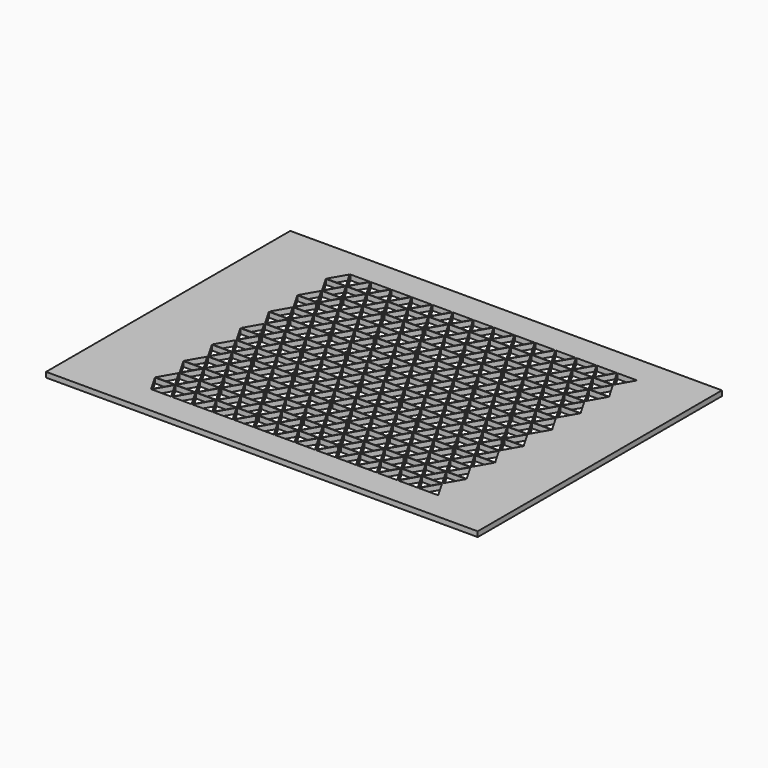
from build123d import *

# Parameters (mm, degrees)
F0_W     = 420
F0_H     = 297
F1_DEPTH = 5
F2_R     = 1.5
F3_DEPTH = 6


with BuildPart() as f1:
    # F0 (on Top) → F1 (new body)
    with BuildSketch(Plane.XY):
        with Locations((140, 103.923048)):
            Rectangle(F0_W, F0_H)
        Polygon((10, -16.820508), (0.433013, -0.25), (19.566987, -0.25), align=None, mode=Mode.SUBTRACT)
        Polygon((10.433013, -17.070508), (20, -0.5), (29.566987, -17.070508), align=None, mode=Mode.SUBTRACT)
        Polygon((30, -16.820508), (20.433013, -0.25), (39.566987, -0.25), align=None, mode=Mode.SUBTRACT)
        Polygon((19.566987, 0.25), (0.433013, 0.25), (10, 16.820508), align=None, mode=Mode.SUBTRACT)
        Polygon((29.566987, 17.070508), (20, 0.5), (10.433013, 17.070508), align=None, mode=Mode.SUBTRACT)
        Polygon((20.433013, 0.25), (30, 16.820508), (39.566987, 0.25), align=None, mode=Mode.SUBTRACT)
        Polygon((10, 17.820508), (0.433013, 34.391016), (19.566987, 34.391016), align=None, mode=Mode.SUBTRACT)
        Polygon((29.566987, 17.570508), (10.433013, 17.570508), (20, 34.141016), align=None, mode=Mode.SUBTRACT)
        Polygon((30, 17.820508), (20.433013, 34.391016), (39.566987, 34.391016), align=None, mode=Mode.SUBTRACT)
        Polygon((49.566987, -17.070508), (30.433013, -17.070508), (40, -0.5), align=None, mode=Mode.SUBTRACT)
        Polygon((50, -16.820508), (40.433013, -0.25), (59.566987, -0.25), align=None, mode=Mode.SUBTRACT)
        Polygon((69.566987, -17.070508), (50.433013, -17.070508), (60, -0.5), align=None, mode=Mode.SUBTRACT)
        Polygon((70, -16.820508), (60.433013, -0.25), (79.566987, -0.25), align=None, mode=Mode.SUBTRACT)
        Polygon((89.566987, -17.070508), (70.433013, -17.070508), (80, -0.5), align=None, mode=Mode.SUBTRACT)
        Polygon((90, -16.820508), (80.433013, -0.25), (99.566987, -0.25), align=None, mode=Mode.SUBTRACT)
        Polygon((109.566987, -17.070508), (90.433013, -17.070508), (100, -0.5), align=None, mode=Mode.SUBTRACT)
        Polygon((110, -16.820508), (100.433013, -0.25), (119.566987, -0.25), align=None, mode=Mode.SUBTRACT)
        Polygon((129.566987, -17.070508), (110.433013, -17.070508), (120, -0.5), align=None, mode=Mode.SUBTRACT)
        Polygon((130, -16.820508), (120.433013, -0.25), (139.566987, -0.25), align=None, mode=Mode.SUBTRACT)
        Polygon((49.566987, 17.070508), (40, 0.5), (30.433013, 17.070508), align=None, mode=Mode.SUBTRACT)
        Polygon((40.433013, 0.25), (50, 16.820508), (59.566987, 0.25), align=None, mode=Mode.SUBTRACT)
        Polygon((69.566987, 17.070508), (60, 0.5), (50.433013, 17.070508), align=None, mode=Mode.SUBTRACT)
        Polygon((60.433013, 0.25), (70, 16.820508), (79.566987, 0.25), align=None, mode=Mode.SUBTRACT)
        Polygon((89.566987, 17.070508), (80, 0.5), (70.433013, 17.070508), align=None, mode=Mode.SUBTRACT)
        Polygon((49.566987, 17.570508), (30.433013, 17.570508), (40, 34.141016), align=None, mode=Mode.SUBTRACT)
        Polygon((50, 17.820508), (40.433013, 34.391016), (59.566987, 34.391016), align=None, mode=Mode.SUBTRACT)
        Polygon((69.566987, 17.570508), (50.433013, 17.570508), (60, 34.141016), align=None, mode=Mode.SUBTRACT)
        Polygon((70, 17.820508), (60.433013, 34.391016), (79.566987, 34.391016), align=None, mode=Mode.SUBTRACT)
        Polygon((89.566987, 17.570508), (70.433013, 17.570508), (80, 34.141016), align=None, mode=Mode.SUBTRACT)
        Polygon((80.433013, 0.25), (90, 16.820508), (99.566987, 0.25), align=None, mode=Mode.SUBTRACT)
        Polygon((109.566987, 17.070508), (100, 0.5), (90.433013, 17.070508), align=None, mode=Mode.SUBTRACT)
        Polygon((100.433013, 0.25), (110, 16.820508), (119.566987, 0.25), align=None, mode=Mode.SUBTRACT)
        Polygon((129.566987, 17.070508), (120, 0.5), (110.433013, 17.070508), align=None, mode=Mode.SUBTRACT)
        Polygon((120.433013, 0.25), (130, 16.820508), (139.566987, 0.25), align=None, mode=Mode.SUBTRACT)
        Polygon((90, 17.820508), (80.433013, 34.391016), (99.566987, 34.391016), align=None, mode=Mode.SUBTRACT)
        Polygon((109.566987, 17.570508), (90.433013, 17.570508), (100, 34.141016), align=None, mode=Mode.SUBTRACT)
        Polygon((110, 17.820508), (100.433013, 34.391016), (119.566987, 34.391016), align=None, mode=Mode.SUBTRACT)
        Polygon((129.566987, 17.570508), (110.433013, 17.570508), (120, 34.141016), align=None, mode=Mode.SUBTRACT)
        Polygon((130, 17.820508), (120.433013, 34.391016), (139.566987, 34.391016), align=None, mode=Mode.SUBTRACT)
        Polygon((0.433013, 34.891016), (10, 51.461524), (19.566987, 34.891016), align=None, mode=Mode.SUBTRACT)
        Polygon((29.566987, 51.711524), (20, 35.141016), (10.433013, 51.711524), align=None, mode=Mode.SUBTRACT)
        Polygon((20.433013, 34.891016), (30, 51.461524), (39.566987, 34.891016), align=None, mode=Mode.SUBTRACT)
        Polygon((10, 52.461524), (0.433013, 69.032032), (19.566987, 69.032032), align=None, mode=Mode.SUBTRACT)
        Polygon((29.566987, 52.211524), (10.433013, 52.211524), (20, 68.782032), align=None, mode=Mode.SUBTRACT)
        Polygon((30, 52.461524), (20.433013, 69.032032), (39.566987, 69.032032), align=None, mode=Mode.SUBTRACT)
        Polygon((0.433013, 69.532032), (10, 86.10254), (19.566987, 69.532032), align=None, mode=Mode.SUBTRACT)
        Polygon((29.566987, 86.35254), (20, 69.782032), (10.433013, 86.35254), align=None, mode=Mode.SUBTRACT)
        Polygon((20.433013, 69.532032), (30, 86.10254), (39.566987, 69.532032), align=None, mode=Mode.SUBTRACT)
        Polygon((10, 87.10254), (0.433013, 103.673048), (19.566987, 103.673048), align=None, mode=Mode.SUBTRACT)
        Polygon((29.566987, 86.85254), (10.433013, 86.85254), (20, 103.423048), align=None, mode=Mode.SUBTRACT)
        Polygon((30, 87.10254), (20.433013, 103.673048), (39.566987, 103.673048), align=None, mode=Mode.SUBTRACT)
        Polygon((49.566987, 51.711524), (40, 35.141016), (30.433013, 51.711524), align=None, mode=Mode.SUBTRACT)
        Polygon((40.433013, 34.891016), (50, 51.461524), (59.566987, 34.891016), align=None, mode=Mode.SUBTRACT)
        Polygon((69.566987, 51.711524), (60, 35.141016), (50.433013, 51.711524), align=None, mode=Mode.SUBTRACT)
        Polygon((60.433013, 34.891016), (70, 51.461524), (79.566987, 34.891016), align=None, mode=Mode.SUBTRACT)
        Polygon((89.566987, 51.711524), (80, 35.141016), (70.433013, 51.711524), align=None, mode=Mode.SUBTRACT)
        Polygon((49.566987, 52.211524), (30.433013, 52.211524), (40, 68.782032), align=None, mode=Mode.SUBTRACT)
        Polygon((50, 52.461524), (40.433013, 69.032032), (59.566987, 69.032032), align=None, mode=Mode.SUBTRACT)
        Polygon((69.566987, 52.211524), (50.433013, 52.211524), (60, 68.782032), align=None, mode=Mode.SUBTRACT)
        Polygon((70, 52.461524), (60.433013, 69.032032), (79.566987, 69.032032), align=None, mode=Mode.SUBTRACT)
        Polygon((89.566987, 52.211524), (70.433013, 52.211524), (80, 68.782032), align=None, mode=Mode.SUBTRACT)
        Polygon((80.433013, 34.891016), (90, 51.461524), (99.566987, 34.891016), align=None, mode=Mode.SUBTRACT)
        Polygon((109.566987, 51.711524), (100, 35.141016), (90.433013, 51.711524), align=None, mode=Mode.SUBTRACT)
        Polygon((100.433013, 34.891016), (110, 51.461524), (119.566987, 34.891016), align=None, mode=Mode.SUBTRACT)
        Polygon((129.566987, 51.711524), (120, 35.141016), (110.433013, 51.711524), align=None, mode=Mode.SUBTRACT)
        Polygon((120.433013, 34.891016), (130, 51.461524), (139.566987, 34.891016), align=None, mode=Mode.SUBTRACT)
        Polygon((90, 52.461524), (80.433013, 69.032032), (99.566987, 69.032032), align=None, mode=Mode.SUBTRACT)
        Polygon((109.566987, 52.211524), (90.433013, 52.211524), (100, 68.782032), align=None, mode=Mode.SUBTRACT)
        Polygon((110, 52.461524), (100.433013, 69.032032), (119.566987, 69.032032), align=None, mode=Mode.SUBTRACT)
        Polygon((129.566987, 52.211524), (110.433013, 52.211524), (120, 68.782032), align=None, mode=Mode.SUBTRACT)
        Polygon((130, 52.461524), (120.433013, 69.032032), (139.566987, 69.032032), align=None, mode=Mode.SUBTRACT)
        Polygon((49.566987, 86.35254), (40, 69.782032), (30.433013, 86.35254), align=None, mode=Mode.SUBTRACT)
        Polygon((40.433013, 69.532032), (50, 86.10254), (59.566987, 69.532032), align=None, mode=Mode.SUBTRACT)
        Polygon((69.566987, 86.35254), (60, 69.782032), (50.433013, 86.35254), align=None, mode=Mode.SUBTRACT)
        Polygon((60.433013, 69.532032), (70, 86.10254), (79.566987, 69.532032), align=None, mode=Mode.SUBTRACT)
        Polygon((89.566987, 86.35254), (80, 69.782032), (70.433013, 86.35254), align=None, mode=Mode.SUBTRACT)
        Polygon((49.566987, 86.85254), (30.433013, 86.85254), (40, 103.423048), align=None, mode=Mode.SUBTRACT)
        Polygon((50, 87.10254), (40.433013, 103.673048), (59.566987, 103.673048), align=None, mode=Mode.SUBTRACT)
        Polygon((69.566987, 86.85254), (50.433013, 86.85254), (60, 103.423048), align=None, mode=Mode.SUBTRACT)
        Polygon((70, 87.10254), (60.433013, 103.673048), (79.566987, 103.673048), align=None, mode=Mode.SUBTRACT)
        Polygon((89.566987, 86.85254), (70.433013, 86.85254), (80, 103.423048), align=None, mode=Mode.SUBTRACT)
        Polygon((80.433013, 69.532032), (90, 86.10254), (99.566987, 69.532032), align=None, mode=Mode.SUBTRACT)
        Polygon((109.566987, 86.35254), (100, 69.782032), (90.433013, 86.35254), align=None, mode=Mode.SUBTRACT)
        Polygon((100.433013, 69.532032), (110, 86.10254), (119.566987, 69.532032), align=None, mode=Mode.SUBTRACT)
        Polygon((129.566987, 86.35254), (120, 69.782032), (110.433013, 86.35254), align=None, mode=Mode.SUBTRACT)
        Polygon((120.433013, 69.532032), (130, 86.10254), (139.566987, 69.532032), align=None, mode=Mode.SUBTRACT)
        Polygon((90, 87.10254), (80.433013, 103.673048), (99.566987, 103.673048), align=None, mode=Mode.SUBTRACT)
        Polygon((109.566987, 86.85254), (90.433013, 86.85254), (100, 103.423048), align=None, mode=Mode.SUBTRACT)
        Polygon((110, 87.10254), (100.433013, 103.673048), (119.566987, 103.673048), align=None, mode=Mode.SUBTRACT)
        Polygon((129.566987, 86.85254), (110.433013, 86.85254), (120, 103.423048), align=None, mode=Mode.SUBTRACT)
        Polygon((130, 87.10254), (120.433013, 103.673048), (139.566987, 103.673048), align=None, mode=Mode.SUBTRACT)
        Polygon((149.566987, -17.070508), (130.433013, -17.070508), (140, -0.5), align=None, mode=Mode.SUBTRACT)
        Polygon((150, -16.820508), (140.433013, -0.25), (159.566987, -0.25), align=None, mode=Mode.SUBTRACT)
        Polygon((169.566987, -17.070508), (150.433013, -17.070508), (160, -0.5), align=None, mode=Mode.SUBTRACT)
        Polygon((170, -16.820508), (160.433013, -0.25), (179.566987, -0.25), align=None, mode=Mode.SUBTRACT)
        Polygon((189.566987, -17.070508), (170.433013, -17.070508), (180, -0.5), align=None, mode=Mode.SUBTRACT)
        Polygon((190, -16.820508), (180.433013, -0.25), (199.566987, -0.25), align=None, mode=Mode.SUBTRACT)
        Polygon((209.566987, -17.070508), (190.433013, -17.070508), (200, -0.5), align=None, mode=Mode.SUBTRACT)
        Polygon((210, -16.820508), (200.433013, -0.25), (219.566987, -0.25), align=None, mode=Mode.SUBTRACT)
        Polygon((229.566987, -17.070508), (210.433013, -17.070508), (220, -0.5), align=None, mode=Mode.SUBTRACT)
        Polygon((230, -16.820508), (220.433013, -0.25), (239.566987, -0.25), align=None, mode=Mode.SUBTRACT)
        Polygon((249.566987, -17.070508), (230.433013, -17.070508), (240, -0.5), align=None, mode=Mode.SUBTRACT)
        Polygon((149.566987, 17.070508), (140, 0.5), (130.433013, 17.070508), align=None, mode=Mode.SUBTRACT)
        Polygon((140.433013, 0.25), (150, 16.820508), (159.566987, 0.25), align=None, mode=Mode.SUBTRACT)
        Polygon((169.566987, 17.070508), (160, 0.5), (150.433013, 17.070508), align=None, mode=Mode.SUBTRACT)
        Polygon((160.433013, 0.25), (170, 16.820508), (179.566987, 0.25), align=None, mode=Mode.SUBTRACT)
        Polygon((189.566987, 17.070508), (180, 0.5), (170.433013, 17.070508), align=None, mode=Mode.SUBTRACT)
        Polygon((180.433013, 0.25), (190, 16.820508), (199.566987, 0.25), align=None, mode=Mode.SUBTRACT)
        Polygon((149.566987, 17.570508), (130.433013, 17.570508), (140, 34.141016), align=None, mode=Mode.SUBTRACT)
        Polygon((150, 17.820508), (140.433013, 34.391016), (159.566987, 34.391016), align=None, mode=Mode.SUBTRACT)
        Polygon((169.566987, 17.570508), (150.433013, 17.570508), (160, 34.141016), align=None, mode=Mode.SUBTRACT)
        Polygon((170, 17.820508), (160.433013, 34.391016), (179.566987, 34.391016), align=None, mode=Mode.SUBTRACT)
        Polygon((189.566987, 17.570508), (170.433013, 17.570508), (180, 34.141016), align=None, mode=Mode.SUBTRACT)
        Polygon((190, 17.820508), (180.433013, 34.391016), (199.566987, 34.391016), align=None, mode=Mode.SUBTRACT)
        Polygon((209.566987, 17.070508), (200, 0.5), (190.433013, 17.070508), align=None, mode=Mode.SUBTRACT)
        Polygon((200.433013, 0.25), (210, 16.820508), (219.566987, 0.25), align=None, mode=Mode.SUBTRACT)
        Polygon((229.566987, 17.070508), (220, 0.5), (210.433013, 17.070508), align=None, mode=Mode.SUBTRACT)
        Polygon((220.433013, 0.25), (230, 16.820508), (239.566987, 0.25), align=None, mode=Mode.SUBTRACT)
        Polygon((249.566987, 17.070508), (240, 0.5), (230.433013, 17.070508), align=None, mode=Mode.SUBTRACT)
        Polygon((209.566987, 17.570508), (190.433013, 17.570508), (200, 34.141016), align=None, mode=Mode.SUBTRACT)
        Polygon((210, 17.820508), (200.433013, 34.391016), (219.566987, 34.391016), align=None, mode=Mode.SUBTRACT)
        Polygon((229.566987, 17.570508), (210.433013, 17.570508), (220, 34.141016), align=None, mode=Mode.SUBTRACT)
        Polygon((230, 17.820508), (220.433013, 34.391016), (239.566987, 34.391016), align=None, mode=Mode.SUBTRACT)
        Polygon((249.566987, 17.570508), (230.433013, 17.570508), (240, 34.141016), align=None, mode=Mode.SUBTRACT)
        Polygon((250, -16.820508), (240.433013, -0.25), (259.566987, -0.25), align=None, mode=Mode.SUBTRACT)
        Polygon((269.566987, -17.070508), (250.433013, -17.070508), (260, -0.5), align=None, mode=Mode.SUBTRACT)
        Polygon((270, -16.820508), (260.433013, -0.25), (279.566987, -0.25), align=None, mode=Mode.SUBTRACT)
        Polygon((289.566987, -17.070508), (270.433013, -17.070508), (280, -0.5), align=None, mode=Mode.SUBTRACT)
        Polygon((240.433013, 0.25), (250, 16.820508), (259.566987, 0.25), align=None, mode=Mode.SUBTRACT)
        Polygon((269.566987, 17.070508), (260, 0.5), (250.433013, 17.070508), align=None, mode=Mode.SUBTRACT)
        Polygon((260.433013, 0.25), (270, 16.820508), (279.566987, 0.25), align=None, mode=Mode.SUBTRACT)
        Polygon((289.566987, 17.070508), (280, 0.5), (270.433013, 17.070508), align=None, mode=Mode.SUBTRACT)
        Polygon((250, 17.820508), (240.433013, 34.391016), (259.566987, 34.391016), align=None, mode=Mode.SUBTRACT)
        Polygon((269.566987, 17.570508), (250.433013, 17.570508), (260, 34.141016), align=None, mode=Mode.SUBTRACT)
        Polygon((270, 17.820508), (260.433013, 34.391016), (279.566987, 34.391016), align=None, mode=Mode.SUBTRACT)
        Polygon((289.566987, 17.570508), (270.433013, 17.570508), (280, 34.141016), align=None, mode=Mode.SUBTRACT)
        Polygon((149.566987, 51.711524), (140, 35.141016), (130.433013, 51.711524), align=None, mode=Mode.SUBTRACT)
        Polygon((140.433013, 34.891016), (150, 51.461524), (159.566987, 34.891016), align=None, mode=Mode.SUBTRACT)
        Polygon((169.566987, 51.711524), (160, 35.141016), (150.433013, 51.711524), align=None, mode=Mode.SUBTRACT)
        Polygon((160.433013, 34.891016), (170, 51.461524), (179.566987, 34.891016), align=None, mode=Mode.SUBTRACT)
        Polygon((189.566987, 51.711524), (180, 35.141016), (170.433013, 51.711524), align=None, mode=Mode.SUBTRACT)
        Polygon((180.433013, 34.891016), (190, 51.461524), (199.566987, 34.891016), align=None, mode=Mode.SUBTRACT)
        Polygon((149.566987, 52.211524), (130.433013, 52.211524), (140, 68.782032), align=None, mode=Mode.SUBTRACT)
        Polygon((150, 52.461524), (140.433013, 69.032032), (159.566987, 69.032032), align=None, mode=Mode.SUBTRACT)
        Polygon((169.566987, 52.211524), (150.433013, 52.211524), (160, 68.782032), align=None, mode=Mode.SUBTRACT)
        Polygon((170, 52.461524), (160.433013, 69.032032), (179.566987, 69.032032), align=None, mode=Mode.SUBTRACT)
        Polygon((189.566987, 52.211524), (170.433013, 52.211524), (180, 68.782032), align=None, mode=Mode.SUBTRACT)
        Polygon((190, 52.461524), (180.433013, 69.032032), (199.566987, 69.032032), align=None, mode=Mode.SUBTRACT)
        Polygon((209.566987, 51.711524), (200, 35.141016), (190.433013, 51.711524), align=None, mode=Mode.SUBTRACT)
        Polygon((200.433013, 34.891016), (210, 51.461524), (219.566987, 34.891016), align=None, mode=Mode.SUBTRACT)
        Polygon((229.566987, 51.711524), (220, 35.141016), (210.433013, 51.711524), align=None, mode=Mode.SUBTRACT)
        Polygon((220.433013, 34.891016), (230, 51.461524), (239.566987, 34.891016), align=None, mode=Mode.SUBTRACT)
        Polygon((249.566987, 51.711524), (240, 35.141016), (230.433013, 51.711524), align=None, mode=Mode.SUBTRACT)
        Polygon((209.566987, 52.211524), (190.433013, 52.211524), (200, 68.782032), align=None, mode=Mode.SUBTRACT)
        Polygon((210, 52.461524), (200.433013, 69.032032), (219.566987, 69.032032), align=None, mode=Mode.SUBTRACT)
        Polygon((229.566987, 52.211524), (210.433013, 52.211524), (220, 68.782032), align=None, mode=Mode.SUBTRACT)
        Polygon((230, 52.461524), (220.433013, 69.032032), (239.566987, 69.032032), align=None, mode=Mode.SUBTRACT)
        Polygon((249.566987, 52.211524), (230.433013, 52.211524), (240, 68.782032), align=None, mode=Mode.SUBTRACT)
        Polygon((149.566987, 86.35254), (140, 69.782032), (130.433013, 86.35254), align=None, mode=Mode.SUBTRACT)
        Polygon((140.433013, 69.532032), (150, 86.10254), (159.566987, 69.532032), align=None, mode=Mode.SUBTRACT)
        Polygon((169.566987, 86.35254), (160, 69.782032), (150.433013, 86.35254), align=None, mode=Mode.SUBTRACT)
        Polygon((160.433013, 69.532032), (170, 86.10254), (179.566987, 69.532032), align=None, mode=Mode.SUBTRACT)
        Polygon((189.566987, 86.35254), (180, 69.782032), (170.433013, 86.35254), align=None, mode=Mode.SUBTRACT)
        Polygon((180.433013, 69.532032), (190, 86.10254), (199.566987, 69.532032), align=None, mode=Mode.SUBTRACT)
        Polygon((149.566987, 86.85254), (130.433013, 86.85254), (140, 103.423048), align=None, mode=Mode.SUBTRACT)
        Polygon((150, 87.10254), (140.433013, 103.673048), (159.566987, 103.673048), align=None, mode=Mode.SUBTRACT)
        Polygon((169.566987, 86.85254), (150.433013, 86.85254), (160, 103.423048), align=None, mode=Mode.SUBTRACT)
        Polygon((170, 87.10254), (160.433013, 103.673048), (179.566987, 103.673048), align=None, mode=Mode.SUBTRACT)
        Polygon((189.566987, 86.85254), (170.433013, 86.85254), (180, 103.423048), align=None, mode=Mode.SUBTRACT)
        Polygon((190, 87.10254), (180.433013, 103.673048), (199.566987, 103.673048), align=None, mode=Mode.SUBTRACT)
        Polygon((209.566987, 86.35254), (200, 69.782032), (190.433013, 86.35254), align=None, mode=Mode.SUBTRACT)
        Polygon((200.433013, 69.532032), (210, 86.10254), (219.566987, 69.532032), align=None, mode=Mode.SUBTRACT)
        Polygon((229.566987, 86.35254), (220, 69.782032), (210.433013, 86.35254), align=None, mode=Mode.SUBTRACT)
        Polygon((220.433013, 69.532032), (230, 86.10254), (239.566987, 69.532032), align=None, mode=Mode.SUBTRACT)
        Polygon((249.566987, 86.35254), (240, 69.782032), (230.433013, 86.35254), align=None, mode=Mode.SUBTRACT)
        Polygon((209.566987, 86.85254), (190.433013, 86.85254), (200, 103.423048), align=None, mode=Mode.SUBTRACT)
        Polygon((210, 87.10254), (200.433013, 103.673048), (219.566987, 103.673048), align=None, mode=Mode.SUBTRACT)
        Polygon((229.566987, 86.85254), (210.433013, 86.85254), (220, 103.423048), align=None, mode=Mode.SUBTRACT)
        Polygon((230, 87.10254), (220.433013, 103.673048), (239.566987, 103.673048), align=None, mode=Mode.SUBTRACT)
        Polygon((249.566987, 86.85254), (230.433013, 86.85254), (240, 103.423048), align=None, mode=Mode.SUBTRACT)
        Polygon((240.433013, 34.891016), (250, 51.461524), (259.566987, 34.891016), align=None, mode=Mode.SUBTRACT)
        Polygon((269.566987, 51.711524), (260, 35.141016), (250.433013, 51.711524), align=None, mode=Mode.SUBTRACT)
        Polygon((260.433013, 34.891016), (270, 51.461524), (279.566987, 34.891016), align=None, mode=Mode.SUBTRACT)
        Polygon((289.566987, 51.711524), (280, 35.141016), (270.433013, 51.711524), align=None, mode=Mode.SUBTRACT)
        Polygon((250, 52.461524), (240.433013, 69.032032), (259.566987, 69.032032), align=None, mode=Mode.SUBTRACT)
        Polygon((269.566987, 52.211524), (250.433013, 52.211524), (260, 68.782032), align=None, mode=Mode.SUBTRACT)
        Polygon((270, 52.461524), (260.433013, 69.032032), (279.566987, 69.032032), align=None, mode=Mode.SUBTRACT)
        Polygon((289.566987, 52.211524), (270.433013, 52.211524), (280, 68.782032), align=None, mode=Mode.SUBTRACT)
        Polygon((240.433013, 69.532032), (250, 86.10254), (259.566987, 69.532032), align=None, mode=Mode.SUBTRACT)
        Polygon((269.566987, 86.35254), (260, 69.782032), (250.433013, 86.35254), align=None, mode=Mode.SUBTRACT)
        Polygon((260.433013, 69.532032), (270, 86.10254), (279.566987, 69.532032), align=None, mode=Mode.SUBTRACT)
        Polygon((289.566987, 86.35254), (280, 69.782032), (270.433013, 86.35254), align=None, mode=Mode.SUBTRACT)
        Polygon((250, 87.10254), (240.433013, 103.673048), (259.566987, 103.673048), align=None, mode=Mode.SUBTRACT)
        Polygon((269.566987, 86.85254), (250.433013, 86.85254), (260, 103.423048), align=None, mode=Mode.SUBTRACT)
        Polygon((270, 87.10254), (260.433013, 103.673048), (279.566987, 103.673048), align=None, mode=Mode.SUBTRACT)
        Polygon((289.566987, 86.85254), (270.433013, 86.85254), (280, 103.423048), align=None, mode=Mode.SUBTRACT)
        Polygon((0.433013, 104.173048), (10, 120.743557), (19.566987, 104.173048), align=None, mode=Mode.SUBTRACT)
        Polygon((29.566987, 120.993557), (20, 104.423048), (10.433013, 120.993557), align=None, mode=Mode.SUBTRACT)
        Polygon((20.433013, 104.173048), (30, 120.743557), (39.566987, 104.173048), align=None, mode=Mode.SUBTRACT)
        Polygon((10, 121.743557), (0.433013, 138.314065), (19.566987, 138.314065), align=None, mode=Mode.SUBTRACT)
        Polygon((29.566987, 121.493557), (10.433013, 121.493557), (20, 138.064065), align=None, mode=Mode.SUBTRACT)
        Polygon((30, 121.743557), (20.433013, 138.314065), (39.566987, 138.314065), align=None, mode=Mode.SUBTRACT)
        Polygon((0.433013, 138.814065), (10, 155.384573), (19.566987, 138.814065), align=None, mode=Mode.SUBTRACT)
        Polygon((29.566987, 155.634573), (20, 139.064065), (10.433013, 155.634573), align=None, mode=Mode.SUBTRACT)
        Polygon((20.433013, 138.814065), (30, 155.384573), (39.566987, 138.814065), align=None, mode=Mode.SUBTRACT)
        Polygon((10, 156.384573), (0.433013, 172.955081), (19.566987, 172.955081), align=None, mode=Mode.SUBTRACT)
        Polygon((29.566987, 156.134573), (10.433013, 156.134573), (20, 172.705081), align=None, mode=Mode.SUBTRACT)
        Polygon((30, 156.384573), (20.433013, 172.955081), (39.566987, 172.955081), align=None, mode=Mode.SUBTRACT)
        Polygon((49.566987, 120.993557), (40, 104.423048), (30.433013, 120.993557), align=None, mode=Mode.SUBTRACT)
        Polygon((40.433013, 104.173048), (50, 120.743557), (59.566987, 104.173048), align=None, mode=Mode.SUBTRACT)
        Polygon((69.566987, 120.993557), (60, 104.423048), (50.433013, 120.993557), align=None, mode=Mode.SUBTRACT)
        Polygon((60.433013, 104.173048), (70, 120.743557), (79.566987, 104.173048), align=None, mode=Mode.SUBTRACT)
        Polygon((89.566987, 120.993557), (80, 104.423048), (70.433013, 120.993557), align=None, mode=Mode.SUBTRACT)
        Polygon((49.566987, 121.493557), (30.433013, 121.493557), (40, 138.064065), align=None, mode=Mode.SUBTRACT)
        Polygon((50, 121.743557), (40.433013, 138.314065), (59.566987, 138.314065), align=None, mode=Mode.SUBTRACT)
        Polygon((69.566987, 121.493557), (50.433013, 121.493557), (60, 138.064065), align=None, mode=Mode.SUBTRACT)
        Polygon((70, 121.743557), (60.433013, 138.314065), (79.566987, 138.314065), align=None, mode=Mode.SUBTRACT)
        Polygon((89.566987, 121.493557), (70.433013, 121.493557), (80, 138.064065), align=None, mode=Mode.SUBTRACT)
        Polygon((80.433013, 104.173048), (90, 120.743557), (99.566987, 104.173048), align=None, mode=Mode.SUBTRACT)
        Polygon((109.566987, 120.993557), (100, 104.423048), (90.433013, 120.993557), align=None, mode=Mode.SUBTRACT)
        Polygon((100.433013, 104.173048), (110, 120.743557), (119.566987, 104.173048), align=None, mode=Mode.SUBTRACT)
        Polygon((129.566987, 120.993557), (120, 104.423048), (110.433013, 120.993557), align=None, mode=Mode.SUBTRACT)
        Polygon((120.433013, 104.173048), (130, 120.743557), (139.566987, 104.173048), align=None, mode=Mode.SUBTRACT)
        Polygon((90, 121.743557), (80.433013, 138.314065), (99.566987, 138.314065), align=None, mode=Mode.SUBTRACT)
        Polygon((109.566987, 121.493557), (90.433013, 121.493557), (100, 138.064065), align=None, mode=Mode.SUBTRACT)
        Polygon((110, 121.743557), (100.433013, 138.314065), (119.566987, 138.314065), align=None, mode=Mode.SUBTRACT)
        Polygon((129.566987, 121.493557), (110.433013, 121.493557), (120, 138.064065), align=None, mode=Mode.SUBTRACT)
        Polygon((130, 121.743557), (120.433013, 138.314065), (139.566987, 138.314065), align=None, mode=Mode.SUBTRACT)
        Polygon((49.566987, 155.634573), (40, 139.064065), (30.433013, 155.634573), align=None, mode=Mode.SUBTRACT)
        Polygon((40.433013, 138.814065), (50, 155.384573), (59.566987, 138.814065), align=None, mode=Mode.SUBTRACT)
        Polygon((69.566987, 155.634573), (60, 139.064065), (50.433013, 155.634573), align=None, mode=Mode.SUBTRACT)
        Polygon((60.433013, 138.814065), (70, 155.384573), (79.566987, 138.814065), align=None, mode=Mode.SUBTRACT)
        Polygon((89.566987, 155.634573), (80, 139.064065), (70.433013, 155.634573), align=None, mode=Mode.SUBTRACT)
        Polygon((49.566987, 156.134573), (30.433013, 156.134573), (40, 172.705081), align=None, mode=Mode.SUBTRACT)
        Polygon((50, 156.384573), (40.433013, 172.955081), (59.566987, 172.955081), align=None, mode=Mode.SUBTRACT)
        Polygon((69.566987, 156.134573), (50.433013, 156.134573), (60, 172.705081), align=None, mode=Mode.SUBTRACT)
        Polygon((70, 156.384573), (60.433013, 172.955081), (79.566987, 172.955081), align=None, mode=Mode.SUBTRACT)
        Polygon((89.566987, 156.134573), (70.433013, 156.134573), (80, 172.705081), align=None, mode=Mode.SUBTRACT)
        Polygon((80.433013, 138.814065), (90, 155.384573), (99.566987, 138.814065), align=None, mode=Mode.SUBTRACT)
        Polygon((109.566987, 155.634573), (100, 139.064065), (90.433013, 155.634573), align=None, mode=Mode.SUBTRACT)
        Polygon((100.433013, 138.814065), (110, 155.384573), (119.566987, 138.814065), align=None, mode=Mode.SUBTRACT)
        Polygon((129.566987, 155.634573), (120, 139.064065), (110.433013, 155.634573), align=None, mode=Mode.SUBTRACT)
        Polygon((120.433013, 138.814065), (130, 155.384573), (139.566987, 138.814065), align=None, mode=Mode.SUBTRACT)
        Polygon((90, 156.384573), (80.433013, 172.955081), (99.566987, 172.955081), align=None, mode=Mode.SUBTRACT)
        Polygon((109.566987, 156.134573), (90.433013, 156.134573), (100, 172.705081), align=None, mode=Mode.SUBTRACT)
        Polygon((110, 156.384573), (100.433013, 172.955081), (119.566987, 172.955081), align=None, mode=Mode.SUBTRACT)
        Polygon((129.566987, 156.134573), (110.433013, 156.134573), (120, 172.705081), align=None, mode=Mode.SUBTRACT)
        Polygon((130, 156.384573), (120.433013, 172.955081), (139.566987, 172.955081), align=None, mode=Mode.SUBTRACT)
        Polygon((0.433013, 173.455081), (10, 190.025589), (19.566987, 173.455081), align=None, mode=Mode.SUBTRACT)
        Polygon((29.566987, 190.275589), (20, 173.705081), (10.433013, 190.275589), align=None, mode=Mode.SUBTRACT)
        Polygon((20.433013, 173.455081), (30, 190.025589), (39.566987, 173.455081), align=None, mode=Mode.SUBTRACT)
        Polygon((10, 191.025589), (0.433013, 207.596097), (19.566987, 207.596097), align=None, mode=Mode.SUBTRACT)
        Polygon((29.566987, 190.775589), (10.433013, 190.775589), (20, 207.346097), align=None, mode=Mode.SUBTRACT)
        Polygon((30, 191.025589), (20.433013, 207.596097), (39.566987, 207.596097), align=None, mode=Mode.SUBTRACT)
        Polygon((0.433013, 208.096097), (10, 224.666605), (19.566987, 208.096097), align=None, mode=Mode.SUBTRACT)
        Polygon((29.566987, 224.916605), (20, 208.346097), (10.433013, 224.916605), align=None, mode=Mode.SUBTRACT)
        Polygon((20.433013, 208.096097), (30, 224.666605), (39.566987, 208.096097), align=None, mode=Mode.SUBTRACT)
        Polygon((49.566987, 190.275589), (40, 173.705081), (30.433013, 190.275589), align=None, mode=Mode.SUBTRACT)
        Polygon((40.433013, 173.455081), (50, 190.025589), (59.566987, 173.455081), align=None, mode=Mode.SUBTRACT)
        Polygon((69.566987, 190.275589), (60, 173.705081), (50.433013, 190.275589), align=None, mode=Mode.SUBTRACT)
        Polygon((60.433013, 173.455081), (70, 190.025589), (79.566987, 173.455081), align=None, mode=Mode.SUBTRACT)
        Polygon((89.566987, 190.275589), (80, 173.705081), (70.433013, 190.275589), align=None, mode=Mode.SUBTRACT)
        Polygon((49.566987, 190.775589), (30.433013, 190.775589), (40, 207.346097), align=None, mode=Mode.SUBTRACT)
        Polygon((50, 191.025589), (40.433013, 207.596097), (59.566987, 207.596097), align=None, mode=Mode.SUBTRACT)
        Polygon((69.566987, 190.775589), (50.433013, 190.775589), (60, 207.346097), align=None, mode=Mode.SUBTRACT)
        Polygon((70, 191.025589), (60.433013, 207.596097), (79.566987, 207.596097), align=None, mode=Mode.SUBTRACT)
        Polygon((89.566987, 190.775589), (70.433013, 190.775589), (80, 207.346097), align=None, mode=Mode.SUBTRACT)
        Polygon((80.433013, 173.455081), (90, 190.025589), (99.566987, 173.455081), align=None, mode=Mode.SUBTRACT)
        Polygon((109.566987, 190.275589), (100, 173.705081), (90.433013, 190.275589), align=None, mode=Mode.SUBTRACT)
        Polygon((100.433013, 173.455081), (110, 190.025589), (119.566987, 173.455081), align=None, mode=Mode.SUBTRACT)
        Polygon((129.566987, 190.275589), (120, 173.705081), (110.433013, 190.275589), align=None, mode=Mode.SUBTRACT)
        Polygon((120.433013, 173.455081), (130, 190.025589), (139.566987, 173.455081), align=None, mode=Mode.SUBTRACT)
        Polygon((90, 191.025589), (80.433013, 207.596097), (99.566987, 207.596097), align=None, mode=Mode.SUBTRACT)
        Polygon((109.566987, 190.775589), (90.433013, 190.775589), (100, 207.346097), align=None, mode=Mode.SUBTRACT)
        Polygon((110, 191.025589), (100.433013, 207.596097), (119.566987, 207.596097), align=None, mode=Mode.SUBTRACT)
        Polygon((129.566987, 190.775589), (110.433013, 190.775589), (120, 207.346097), align=None, mode=Mode.SUBTRACT)
        Polygon((130, 191.025589), (120.433013, 207.596097), (139.566987, 207.596097), align=None, mode=Mode.SUBTRACT)
        Polygon((49.566987, 224.916605), (40, 208.346097), (30.433013, 224.916605), align=None, mode=Mode.SUBTRACT)
        Polygon((40.433013, 208.096097), (50, 224.666605), (59.566987, 208.096097), align=None, mode=Mode.SUBTRACT)
        Polygon((69.566987, 224.916605), (60, 208.346097), (50.433013, 224.916605), align=None, mode=Mode.SUBTRACT)
        Polygon((60.433013, 208.096097), (70, 224.666605), (79.566987, 208.096097), align=None, mode=Mode.SUBTRACT)
        Polygon((89.566987, 224.916605), (80, 208.346097), (70.433013, 224.916605), align=None, mode=Mode.SUBTRACT)
        Polygon((80.433013, 208.096097), (90, 224.666605), (99.566987, 208.096097), align=None, mode=Mode.SUBTRACT)
        Polygon((109.566987, 224.916605), (100, 208.346097), (90.433013, 224.916605), align=None, mode=Mode.SUBTRACT)
        Polygon((100.433013, 208.096097), (110, 224.666605), (119.566987, 208.096097), align=None, mode=Mode.SUBTRACT)
        Polygon((129.566987, 224.916605), (120, 208.346097), (110.433013, 224.916605), align=None, mode=Mode.SUBTRACT)
        Polygon((120.433013, 208.096097), (130, 224.666605), (139.566987, 208.096097), align=None, mode=Mode.SUBTRACT)
        Polygon((149.566987, 120.993557), (140, 104.423048), (130.433013, 120.993557), align=None, mode=Mode.SUBTRACT)
        Polygon((140.433013, 104.173048), (150, 120.743557), (159.566987, 104.173048), align=None, mode=Mode.SUBTRACT)
        Polygon((169.566987, 120.993557), (160, 104.423048), (150.433013, 120.993557), align=None, mode=Mode.SUBTRACT)
        Polygon((160.433013, 104.173048), (170, 120.743557), (179.566987, 104.173048), align=None, mode=Mode.SUBTRACT)
        Polygon((189.566987, 120.993557), (180, 104.423048), (170.433013, 120.993557), align=None, mode=Mode.SUBTRACT)
        Polygon((180.433013, 104.173048), (190, 120.743557), (199.566987, 104.173048), align=None, mode=Mode.SUBTRACT)
        Polygon((149.566987, 121.493557), (130.433013, 121.493557), (140, 138.064065), align=None, mode=Mode.SUBTRACT)
        Polygon((150, 121.743557), (140.433013, 138.314065), (159.566987, 138.314065), align=None, mode=Mode.SUBTRACT)
        Polygon((169.566987, 121.493557), (150.433013, 121.493557), (160, 138.064065), align=None, mode=Mode.SUBTRACT)
        Polygon((170, 121.743557), (160.433013, 138.314065), (179.566987, 138.314065), align=None, mode=Mode.SUBTRACT)
        Polygon((189.566987, 121.493557), (170.433013, 121.493557), (180, 138.064065), align=None, mode=Mode.SUBTRACT)
        Polygon((190, 121.743557), (180.433013, 138.314065), (199.566987, 138.314065), align=None, mode=Mode.SUBTRACT)
        Polygon((209.566987, 120.993557), (200, 104.423048), (190.433013, 120.993557), align=None, mode=Mode.SUBTRACT)
        Polygon((200.433013, 104.173048), (210, 120.743557), (219.566987, 104.173048), align=None, mode=Mode.SUBTRACT)
        Polygon((229.566987, 120.993557), (220, 104.423048), (210.433013, 120.993557), align=None, mode=Mode.SUBTRACT)
        Polygon((220.433013, 104.173048), (230, 120.743557), (239.566987, 104.173048), align=None, mode=Mode.SUBTRACT)
        Polygon((249.566987, 120.993557), (240, 104.423048), (230.433013, 120.993557), align=None, mode=Mode.SUBTRACT)
        Polygon((209.566987, 121.493557), (190.433013, 121.493557), (200, 138.064065), align=None, mode=Mode.SUBTRACT)
        Polygon((210, 121.743557), (200.433013, 138.314065), (219.566987, 138.314065), align=None, mode=Mode.SUBTRACT)
        Polygon((229.566987, 121.493557), (210.433013, 121.493557), (220, 138.064065), align=None, mode=Mode.SUBTRACT)
        Polygon((230, 121.743557), (220.433013, 138.314065), (239.566987, 138.314065), align=None, mode=Mode.SUBTRACT)
        Polygon((249.566987, 121.493557), (230.433013, 121.493557), (240, 138.064065), align=None, mode=Mode.SUBTRACT)
        Polygon((149.566987, 155.634573), (140, 139.064065), (130.433013, 155.634573), align=None, mode=Mode.SUBTRACT)
        Polygon((140.433013, 138.814065), (150, 155.384573), (159.566987, 138.814065), align=None, mode=Mode.SUBTRACT)
        Polygon((169.566987, 155.634573), (160, 139.064065), (150.433013, 155.634573), align=None, mode=Mode.SUBTRACT)
        Polygon((160.433013, 138.814065), (170, 155.384573), (179.566987, 138.814065), align=None, mode=Mode.SUBTRACT)
        Polygon((189.566987, 155.634573), (180, 139.064065), (170.433013, 155.634573), align=None, mode=Mode.SUBTRACT)
        Polygon((180.433013, 138.814065), (190, 155.384573), (199.566987, 138.814065), align=None, mode=Mode.SUBTRACT)
        Polygon((149.566987, 156.134573), (130.433013, 156.134573), (140, 172.705081), align=None, mode=Mode.SUBTRACT)
        Polygon((150, 156.384573), (140.433013, 172.955081), (159.566987, 172.955081), align=None, mode=Mode.SUBTRACT)
        Polygon((169.566987, 156.134573), (150.433013, 156.134573), (160, 172.705081), align=None, mode=Mode.SUBTRACT)
        Polygon((170, 156.384573), (160.433013, 172.955081), (179.566987, 172.955081), align=None, mode=Mode.SUBTRACT)
        Polygon((189.566987, 156.134573), (170.433013, 156.134573), (180, 172.705081), align=None, mode=Mode.SUBTRACT)
        Polygon((190, 156.384573), (180.433013, 172.955081), (199.566987, 172.955081), align=None, mode=Mode.SUBTRACT)
        Polygon((209.566987, 155.634573), (200, 139.064065), (190.433013, 155.634573), align=None, mode=Mode.SUBTRACT)
        Polygon((200.433013, 138.814065), (210, 155.384573), (219.566987, 138.814065), align=None, mode=Mode.SUBTRACT)
        Polygon((229.566987, 155.634573), (220, 139.064065), (210.433013, 155.634573), align=None, mode=Mode.SUBTRACT)
        Polygon((220.433013, 138.814065), (230, 155.384573), (239.566987, 138.814065), align=None, mode=Mode.SUBTRACT)
        Polygon((249.566987, 155.634573), (240, 139.064065), (230.433013, 155.634573), align=None, mode=Mode.SUBTRACT)
        Polygon((209.566987, 156.134573), (190.433013, 156.134573), (200, 172.705081), align=None, mode=Mode.SUBTRACT)
        Polygon((210, 156.384573), (200.433013, 172.955081), (219.566987, 172.955081), align=None, mode=Mode.SUBTRACT)
        Polygon((229.566987, 156.134573), (210.433013, 156.134573), (220, 172.705081), align=None, mode=Mode.SUBTRACT)
        Polygon((230, 156.384573), (220.433013, 172.955081), (239.566987, 172.955081), align=None, mode=Mode.SUBTRACT)
        Polygon((249.566987, 156.134573), (230.433013, 156.134573), (240, 172.705081), align=None, mode=Mode.SUBTRACT)
        Polygon((240.433013, 104.173048), (250, 120.743557), (259.566987, 104.173048), align=None, mode=Mode.SUBTRACT)
        Polygon((269.566987, 120.993557), (260, 104.423048), (250.433013, 120.993557), align=None, mode=Mode.SUBTRACT)
        Polygon((260.433013, 104.173048), (270, 120.743557), (279.566987, 104.173048), align=None, mode=Mode.SUBTRACT)
        Polygon((289.566987, 120.993557), (280, 104.423048), (270.433013, 120.993557), align=None, mode=Mode.SUBTRACT)
        Polygon((250, 121.743557), (240.433013, 138.314065), (259.566987, 138.314065), align=None, mode=Mode.SUBTRACT)
        Polygon((269.566987, 121.493557), (250.433013, 121.493557), (260, 138.064065), align=None, mode=Mode.SUBTRACT)
        Polygon((270, 121.743557), (260.433013, 138.314065), (279.566987, 138.314065), align=None, mode=Mode.SUBTRACT)
        Polygon((289.566987, 121.493557), (270.433013, 121.493557), (280, 138.064065), align=None, mode=Mode.SUBTRACT)
        Polygon((240.433013, 138.814065), (250, 155.384573), (259.566987, 138.814065), align=None, mode=Mode.SUBTRACT)
        Polygon((269.566987, 155.634573), (260, 139.064065), (250.433013, 155.634573), align=None, mode=Mode.SUBTRACT)
        Polygon((260.433013, 138.814065), (270, 155.384573), (279.566987, 138.814065), align=None, mode=Mode.SUBTRACT)
        Polygon((289.566987, 155.634573), (280, 139.064065), (270.433013, 155.634573), align=None, mode=Mode.SUBTRACT)
        Polygon((250, 156.384573), (240.433013, 172.955081), (259.566987, 172.955081), align=None, mode=Mode.SUBTRACT)
        Polygon((269.566987, 156.134573), (250.433013, 156.134573), (260, 172.705081), align=None, mode=Mode.SUBTRACT)
        Polygon((270, 156.384573), (260.433013, 172.955081), (279.566987, 172.955081), align=None, mode=Mode.SUBTRACT)
        Polygon((289.566987, 156.134573), (270.433013, 156.134573), (280, 172.705081), align=None, mode=Mode.SUBTRACT)
        Polygon((149.566987, 190.275589), (140, 173.705081), (130.433013, 190.275589), align=None, mode=Mode.SUBTRACT)
        Polygon((140.433013, 173.455081), (150, 190.025589), (159.566987, 173.455081), align=None, mode=Mode.SUBTRACT)
        Polygon((169.566987, 190.275589), (160, 173.705081), (150.433013, 190.275589), align=None, mode=Mode.SUBTRACT)
        Polygon((160.433013, 173.455081), (170, 190.025589), (179.566987, 173.455081), align=None, mode=Mode.SUBTRACT)
        Polygon((189.566987, 190.275589), (180, 173.705081), (170.433013, 190.275589), align=None, mode=Mode.SUBTRACT)
        Polygon((180.433013, 173.455081), (190, 190.025589), (199.566987, 173.455081), align=None, mode=Mode.SUBTRACT)
        Polygon((149.566987, 190.775589), (130.433013, 190.775589), (140, 207.346097), align=None, mode=Mode.SUBTRACT)
        Polygon((150, 191.025589), (140.433013, 207.596097), (159.566987, 207.596097), align=None, mode=Mode.SUBTRACT)
        Polygon((169.566987, 190.775589), (150.433013, 190.775589), (160, 207.346097), align=None, mode=Mode.SUBTRACT)
        Polygon((170, 191.025589), (160.433013, 207.596097), (179.566987, 207.596097), align=None, mode=Mode.SUBTRACT)
        Polygon((189.566987, 190.775589), (170.433013, 190.775589), (180, 207.346097), align=None, mode=Mode.SUBTRACT)
        Polygon((190, 191.025589), (180.433013, 207.596097), (199.566987, 207.596097), align=None, mode=Mode.SUBTRACT)
        Polygon((209.566987, 190.275589), (200, 173.705081), (190.433013, 190.275589), align=None, mode=Mode.SUBTRACT)
        Polygon((200.433013, 173.455081), (210, 190.025589), (219.566987, 173.455081), align=None, mode=Mode.SUBTRACT)
        Polygon((229.566987, 190.275589), (220, 173.705081), (210.433013, 190.275589), align=None, mode=Mode.SUBTRACT)
        Polygon((220.433013, 173.455081), (230, 190.025589), (239.566987, 173.455081), align=None, mode=Mode.SUBTRACT)
        Polygon((249.566987, 190.275589), (240, 173.705081), (230.433013, 190.275589), align=None, mode=Mode.SUBTRACT)
        Polygon((209.566987, 190.775589), (190.433013, 190.775589), (200, 207.346097), align=None, mode=Mode.SUBTRACT)
        Polygon((210, 191.025589), (200.433013, 207.596097), (219.566987, 207.596097), align=None, mode=Mode.SUBTRACT)
        Polygon((229.566987, 190.775589), (210.433013, 190.775589), (220, 207.346097), align=None, mode=Mode.SUBTRACT)
        Polygon((230, 191.025589), (220.433013, 207.596097), (239.566987, 207.596097), align=None, mode=Mode.SUBTRACT)
        Polygon((249.566987, 190.775589), (230.433013, 190.775589), (240, 207.346097), align=None, mode=Mode.SUBTRACT)
        Polygon((149.566987, 224.916605), (140, 208.346097), (130.433013, 224.916605), align=None, mode=Mode.SUBTRACT)
        Polygon((140.433013, 208.096097), (150, 224.666605), (159.566987, 208.096097), align=None, mode=Mode.SUBTRACT)
        Polygon((169.566987, 224.916605), (160, 208.346097), (150.433013, 224.916605), align=None, mode=Mode.SUBTRACT)
        Polygon((160.433013, 208.096097), (170, 224.666605), (179.566987, 208.096097), align=None, mode=Mode.SUBTRACT)
        Polygon((189.566987, 224.916605), (180, 208.346097), (170.433013, 224.916605), align=None, mode=Mode.SUBTRACT)
        Polygon((180.433013, 208.096097), (190, 224.666605), (199.566987, 208.096097), align=None, mode=Mode.SUBTRACT)
        Polygon((209.566987, 224.916605), (200, 208.346097), (190.433013, 224.916605), align=None, mode=Mode.SUBTRACT)
        Polygon((200.433013, 208.096097), (210, 224.666605), (219.566987, 208.096097), align=None, mode=Mode.SUBTRACT)
        Polygon((229.566987, 224.916605), (220, 208.346097), (210.433013, 224.916605), align=None, mode=Mode.SUBTRACT)
        Polygon((220.433013, 208.096097), (230, 224.666605), (239.566987, 208.096097), align=None, mode=Mode.SUBTRACT)
        Polygon((249.566987, 224.916605), (240, 208.346097), (230.433013, 224.916605), align=None, mode=Mode.SUBTRACT)
        Polygon((240.433013, 173.455081), (250, 190.025589), (259.566987, 173.455081), align=None, mode=Mode.SUBTRACT)
        Polygon((269.566987, 190.275589), (260, 173.705081), (250.433013, 190.275589), align=None, mode=Mode.SUBTRACT)
        Polygon((260.433013, 173.455081), (270, 190.025589), (279.566987, 173.455081), align=None, mode=Mode.SUBTRACT)
        Polygon((289.566987, 190.275589), (280, 173.705081), (270.433013, 190.275589), align=None, mode=Mode.SUBTRACT)
        Polygon((250, 191.025589), (240.433013, 207.596097), (259.566987, 207.596097), align=None, mode=Mode.SUBTRACT)
        Polygon((269.566987, 190.775589), (250.433013, 190.775589), (260, 207.346097), align=None, mode=Mode.SUBTRACT)
        Polygon((270, 191.025589), (260.433013, 207.596097), (279.566987, 207.596097), align=None, mode=Mode.SUBTRACT)
        Polygon((289.566987, 190.775589), (270.433013, 190.775589), (280, 207.346097), align=None, mode=Mode.SUBTRACT)
        Polygon((240.433013, 208.096097), (250, 224.666605), (259.566987, 208.096097), align=None, mode=Mode.SUBTRACT)
        Polygon((269.566987, 224.916605), (260, 208.346097), (250.433013, 224.916605), align=None, mode=Mode.SUBTRACT)
        Polygon((260.433013, 208.096097), (270, 224.666605), (279.566987, 208.096097), align=None, mode=Mode.SUBTRACT)
        Polygon((289.566987, 224.916605), (280, 208.346097), (270.433013, 224.916605), align=None, mode=Mode.SUBTRACT)
    extrude(amount=F1_DEPTH)


with BuildPart() as f3:
    # F2 (on Top) → F3 (new body)
    with BuildSketch(Plane.XY):
        with Locations((50, 17.320508)):
            Circle(F2_R)
        with Locations((100, 0)):
            Circle(F2_R)
        with Locations((130, 17.320508)):
            Circle(F2_R)
        with Locations((80, 34.641016)):
            Circle(F2_R)
        with Locations((80, 69.282032)):
            Circle(F2_R)
        with Locations((40, 69.282032)):
            Circle(F2_R)
        with Locations((130, 51.961524)):
            Circle(F2_R)
        with Locations((180, 0)):
            Circle(F2_R)
        with Locations((200, 34.641016)):
            Circle(F2_R)
        with Locations((160, 34.641016)):
            Circle(F2_R)
        with Locations((230, 17.320508)):
            Circle(F2_R)
        with Locations((250, 51.961524)):
            Circle(F2_R)
        with Locations((270, 86.60254)):
            Circle(F2_R)
        with Locations((200, 69.282032)):
            Circle(F2_R)
        with Locations((170, 86.60254)):
            Circle(F2_R)
        with Locations((130, 86.60254)):
            Circle(F2_R)
        with Locations((60, 103.923048)):
            Circle(F2_R)
        with Locations((20, 103.923048)):
            Circle(F2_R)
        with Locations((90, 121.243557)):
            Circle(F2_R)
        with Locations((130, 121.243557)):
            Circle(F2_R)
        with Locations((170, 121.243557)):
            Circle(F2_R)
        with Locations((220, 103.923048)):
            Circle(F2_R)
        with Locations((250, 121.243557)):
            Circle(F2_R)
        with Locations((230, 155.884573)):
            Circle(F2_R)
        with Locations((200, 138.564065)):
            Circle(F2_R)
        with Locations((130, 155.884573)):
            Circle(F2_R)
        with Locations((90, 155.884573)):
            Circle(F2_R)
        with Locations((60, 138.564065)):
            Circle(F2_R)
        with Locations((20, 138.564065)):
            Circle(F2_R)
        with Locations((30, 190.525589)):
            Circle(F2_R)
        with Locations((20, 173.205081)):
            Circle(F2_R)
        with Locations((70, 190.525589)):
            Circle(F2_R)
        with Locations((110, 190.525589)):
            Circle(F2_R)
        with Locations((160, 173.205081)):
            Circle(F2_R)
        with Locations((200, 173.205081)):
            Circle(F2_R)
    extrude(amount=F3_DEPTH)


solid = Compound([f1.part, f3.part])
